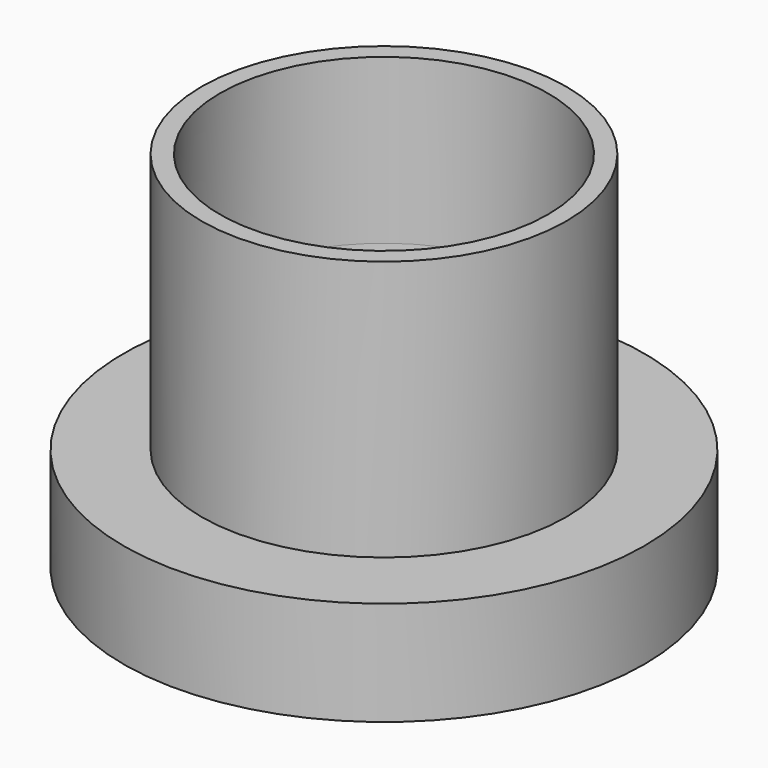
from build123d import *

# Parameters (mm, degrees)
F0_R     = 10
F1_DEPTH = 14
F2_W     = 6.3
F2_H     = 6.3
F4_R     = 10
F4_R_2   = 7
F5_DEPTH = 10


with BuildPart() as f1:
    # F0 (on Top) → F1 (new body)
    with BuildSketch(Plane.XY):
        Circle(F0_R)
    extrude(amount=F1_DEPTH)

    # F2 (on Front) → F3 (revolve, cut)
    with BuildSketch(Plane.XZ):
        with Locations((3.15, 10.85)):
            Rectangle(F2_W, F2_H)
        with BuildLine():
            Line((6.3, 7.7), (0, 7.7))
            Line((0, 7.7), (0, 1.4))
            ThreePointArc((0, 1.4), (4.4547727215, 3.2452272785), (6.3, 7.7))
        make_face()
    revolve(axis=Axis((0, 0, 0), (0, 0, -1)), mode=Mode.SUBTRACT)

    # F4 (on face) → F5 (cut)
    with BuildSketch(Plane.XY.offset(14)):
        Circle(F4_R)
        Circle(F4_R_2, mode=Mode.SUBTRACT)
    extrude(amount=-F5_DEPTH, mode=Mode.SUBTRACT)


solid = f1.part
